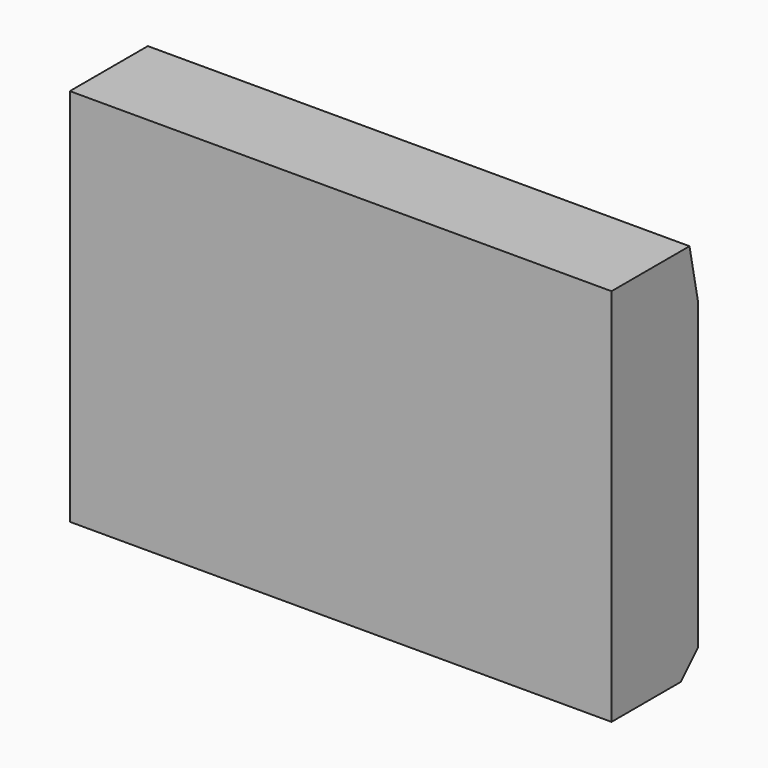
from build123d import *

# Parameters (mm, degrees)
BOX007_W         = 10
BOX007_H         = 2
BOX007_DEPTH     = 7
CHAMFER001_SIZE2 = 0.2
CHAMFER001_SIZE  = 1
CHAMFER003_SIZE  = 0.4


with BuildPart() as part:
    # Box007 → Box007 (new body)
    with BuildSketch(Plane(origin=(0, -0.27, 4), x_dir=(1, 0, 0), z_dir=(0, 0, 1))):
        with Locations((5, 1)):
            Rectangle(BOX007_W, BOX007_H)
    extrude(amount=BOX007_DEPTH)

    # Chamfer001
    chamfer001_edges = [part.edges().sort_by_distance(p)[0] for p in [
        (5, 1.73, 11),
    ]]
    chamfer001_side = part.faces().sort_by_distance((5, 1.73, 7.5))[0]
    chamfer(chamfer001_edges, length=CHAMFER001_SIZE, length2=CHAMFER001_SIZE2, reference=chamfer001_side)

    # Chamfer003
    chamfer003_edges = [part.edges().sort_by_distance(p)[0] for p in [
        (5, 1.73, 4),
    ]]
    chamfer(chamfer003_edges, length=CHAMFER003_SIZE)


solid = part.part
